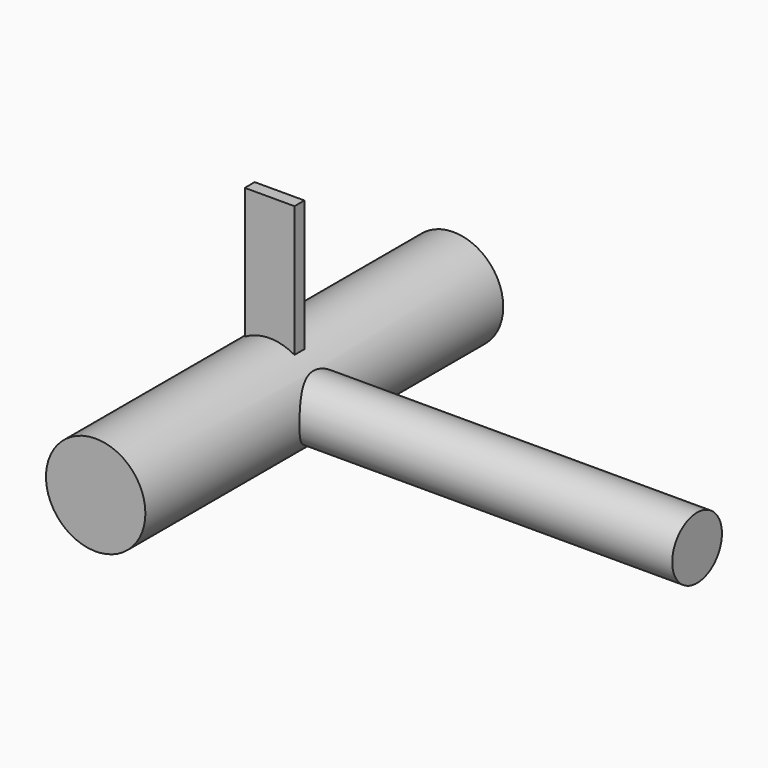
from build123d import *

# Parameters (mm, degrees)
F1_R     = 7.9375
F2_DEPTH = 107.95
F0_R     = 12.7
F3_DEPTH = 57.15
F5_DEPTH = 1.5875


with BuildPart() as f2:
    # F1 (on Right) → F2 (new body)
    with BuildSketch(Plane.YZ):
        Circle(F1_R)
    extrude(amount=F2_DEPTH)

    # F0 (on Front) → F3 (join, symmetric)
    with BuildSketch(Plane.XZ):
        Circle(F0_R)
    extrude(amount=F3_DEPTH, both=True)

    # F4 (on Front) → F5 (join, symmetric)
    with BuildSketch(Plane.XZ):
        Polygon((-6.35, 6.35), (0, 6.35), (6.35, 6.35), (6.35, 44.45), (-6.35, 44.45), align=None)
    extrude(amount=F5_DEPTH, both=True)


solid = f2.part
